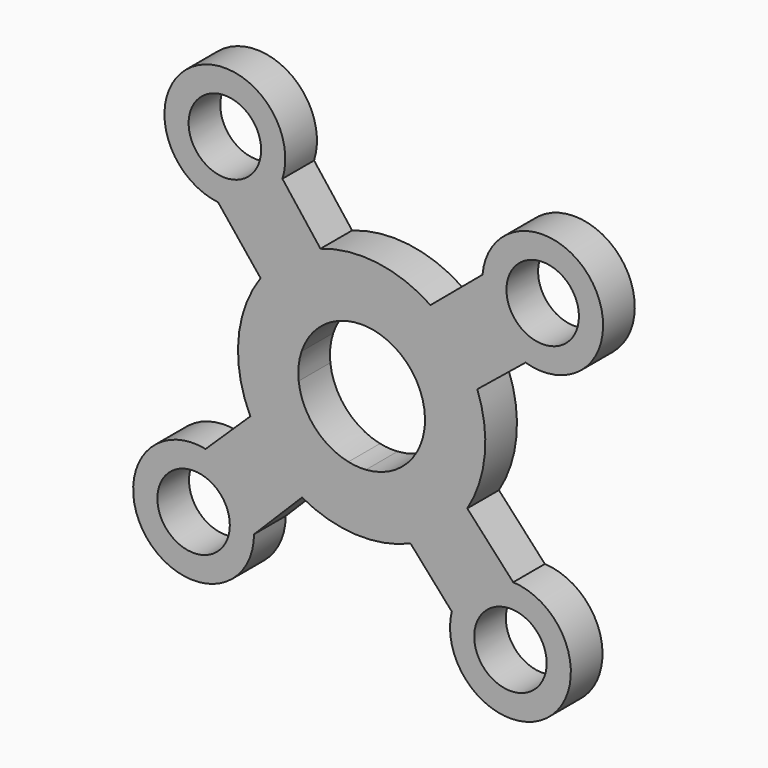
from build123d import *

# Parameters (mm, degrees)
F0_R     = 6.35
F1_DEPTH = 6.9342


with BuildPart() as f1:
    # F0 (on Front) → F1 (new body)
    with BuildSketch(Plane.XZ):
        with BuildLine():
            Line((8.566326, -19.902897), (0.742382, -11.074946))
            ThreePointArc((0.742382, -11.074946), (-0.800014, -11.070932), (-2.326962, -10.853147))
            Line((-2.326962, -10.853147), (-10.447411, -18.98312))
            ThreePointArc((-10.447411, -18.98312), (-1.046956, -21.642808), (8.566326, -19.902897))
        make_face()
        with BuildLine():
            Line((18.509343, -11.265499), (10.741317, -2.798155))
            ThreePointArc((10.741317, -2.798155), (7.077793, -8.550463), (0.742382, -11.074946))
            Line((0.742382, -11.074946), (8.566326, -19.902897))
            Line((8.566326, -19.902897), (15.79527, -28.059494))
            ThreePointArc((15.79527, -28.059494), (32.401343, -39.102565), (26.55543, -20.035936))
            Line((26.55543, -20.035936), (18.509343, -11.265499))
        make_face()
        with Locations((26.071511, -30.613814)):
            Circle(F0_R, mode=Mode.SUBTRACT)
        with BuildLine():
            ThreePointArc((11.096787, 0.258593), (11.099047, 0.129305), (11.0998, 0))
            ThreePointArc((11.0998, 0), (11.009814, -1.410513), (10.741317, -2.798155))
            Line((10.741317, -2.798155), (18.509343, -11.265499))
            ThreePointArc((18.509343, -11.265499), (21.576541, -1.990006), (20.257612, 7.690021))
            Line((20.257612, 7.690021), (11.096787, 0.258593))
        make_face()
        with BuildLine():
            ThreePointArc((3.264022, 10.60904), (8.851053, 6.69809), (11.096787, 0.258593))
            Line((11.096787, 0.258593), (20.257612, 7.690021))
            Line((20.257612, 7.690021), (28.721768, 14.556299))
            ThreePointArc((28.721768, 14.556299), (40.478675, 30.664874), (21.175198, 25.6562))
            Line((21.175198, 25.6562), (12.062143, 18.000332))
            Line((12.062143, 18.000332), (3.264022, 10.60904))
        make_face()
        with Locations((31.721899, 24.711341)):
            Circle(F0_R, mode=Mode.SUBTRACT)
        with BuildLine():
            ThreePointArc((0, 11.0998), (1.650355, 10.976424), (3.264022, 10.60904))
            Line((3.264022, 10.60904), (12.062143, 18.000332))
            ThreePointArc((12.062143, 18.000332), (2.710842, 21.497874), (-7.21599, 20.431268))
            Line((-7.21599, 20.431268), (0, 11.0998))
        make_face()
        with BuildLine():
            ThreePointArc((-10.530118, 3.510295), (-6.490069, 9.004697), (0, 11.0998))
            Line((0, 11.0998), (-7.21599, 20.431268))
            Line((-7.21599, 20.431268), (-13.883215, 29.053092))
            ThreePointArc((-13.883215, 29.053092), (-29.713516, 41.18209), (-25.155916, 21.767165))
            Line((-25.155916, 21.767165), (-17.714434, 12.478224))
            Line((-17.714434, 12.478224), (-10.530118, 3.510295))
        make_face()
        with Locations((-23.965607, 32.288991)):
            Circle(F0_R, mode=Mode.SUBTRACT)
        with BuildLine():
            ThreePointArc((-11.032023, -1.224758), (-11.037965, 1.169999), (-10.530118, 3.510295))
            Line((-10.530118, 3.510295), (-17.714434, 12.478224))
            ThreePointArc((-17.714434, 12.478224), (-21.595658, 1.770537), (-19.510296, -9.426325))
            Line((-19.510296, -9.426325), (-11.032023, -1.224758))
        make_face()
        with BuildLine():
            Line((-10.447411, -18.98312), (-2.326962, -10.853147))
            ThreePointArc((-2.326962, -10.853147), (-8.233595, -7.444022), (-11.032023, -1.224758))
            Line((-11.032023, -1.224758), (-19.510296, -9.426325))
            Line((-19.510296, -9.426325), (-27.343808, -17.004175))
            ThreePointArc((-27.343808, -17.004175), (-37.652022, -34.076134), (-18.858535, -27.40411))
            Line((-18.858535, -27.40411), (-10.447411, -18.98312))
        make_face()
        with Locations((-29.447453, -27.382053)):
            Circle(F0_R, mode=Mode.SUBTRACT)
    extrude(amount=F1_DEPTH)


solid = f1.part
